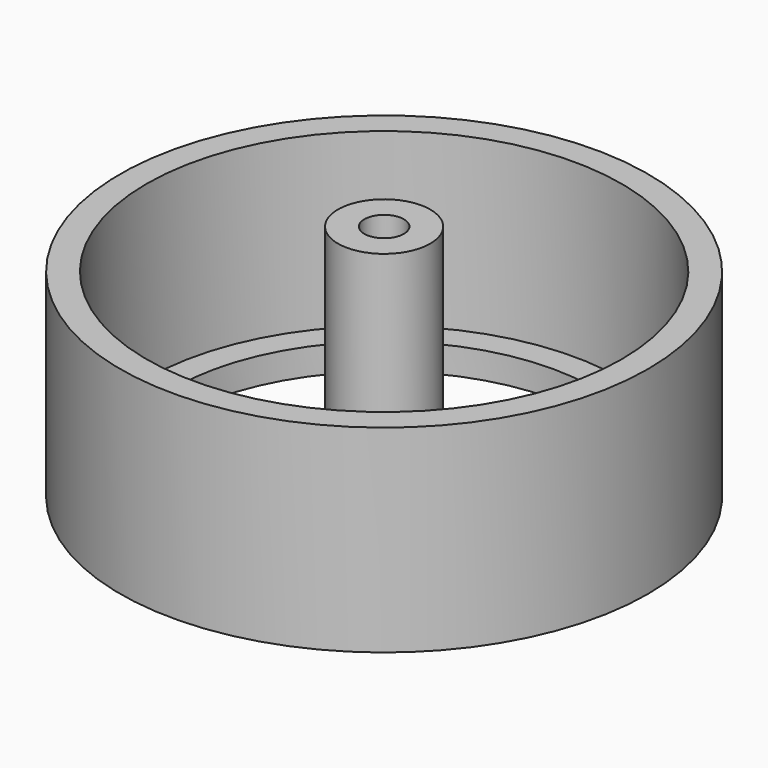
from build123d import *

# Parameters (mm, degrees)
F0_R      = 20
F1_DEPTH  = 15
F2_R      = 18
F3_DEPTH  = 13
F4_R      = 3.5
F4_R_2    = 1.5
F6_DEPTH  = 16
F7_DEPTH  = 2
F5_R      = 16.5
F5_R_2    = 17
F8_DEPTH  = 1
F9_R      = 4
F9_R_2    = 3.5
F10_DEPTH = 1


with BuildPart() as f1:
    # F0 (on Top) → F1 (new body)
    with BuildSketch(Plane.XY):
        Circle(F0_R)
    extrude(amount=F1_DEPTH)

    # F2 (on face) → F3 (cut)
    with BuildSketch(Plane.XY.offset(15)):
        Circle(F2_R)
    extrude(amount=-F3_DEPTH, mode=Mode.SUBTRACT)

    # F4 (on face) → F6 (join)
    with BuildSketch(Plane.XY.offset(2)):
        Circle(F4_R)
        Circle(F4_R_2, mode=Mode.SUBTRACT)
    extrude(amount=F6_DEPTH)

    # F5 (on face) → F7 (cut)
    with BuildSketch(Plane(origin=(0, 0, 0), x_dir=(1, 0, 0), z_dir=(0, 0, -1))):
        with BuildLine():
            Line((0, -5.352867), (-7.560142, -14.101215))
            ThreePointArc((-7.560142, -14.101215), (0, -16), (7.560142, -14.101215))
            Line((7.560142, -14.101215), (0, -5.352867))
        make_face()
        with BuildLine():
            Line((-5.090879, -1.654127), (-15.747264, 2.832607))
            ThreePointArc((-15.747264, 2.832607), (-15.216904, -4.944272), (-11.07484, -11.547637))
            Line((-11.07484, -11.547637), (-5.090879, -1.654127))
        make_face()
        with BuildLine():
            Line((-3.146336, 4.330561), (-2.172203, 15.851862))
            ThreePointArc((-2.172203, 15.851862), (-9.404564, 12.944272), (-14.404769, 6.964382))
            Line((-14.404769, 6.964382), (-3.146336, 4.330561))
        make_face()
        with BuildLine():
            ThreePointArc((14.404769, 6.964382), (9.404564, 12.944272), (2.172203, 15.851862))
            Line((2.172203, 15.851862), (3.146336, 4.330561))
            Line((3.146336, 4.330561), (14.404769, 6.964382))
        make_face()
        with BuildLine():
            Line((5.090879, -1.654127), (11.07484, -11.547637))
            ThreePointArc((11.07484, -11.547637), (15.216904, -4.944272), (15.747264, 2.832607))
            Line((15.747264, 2.832607), (5.090879, -1.654127))
        make_face()
    extrude(amount=-F7_DEPTH, mode=Mode.SUBTRACT)

    # F5 (on face) → F8 (cut)
    with BuildSketch(Plane(origin=(0, 0, 0), x_dir=(1, 0, 0), z_dir=(0, 0, -1))):
        Circle(F5_R)
        with BuildLine():
            ThreePointArc((-11.07484, -11.547637), (-15.216904, -4.944272), (-15.747264, 2.832607))
            Line((-15.747264, 2.832607), (-5.090879, -1.654127))
            Line((-5.090879, -1.654127), (-11.07484, -11.547637))
        make_face(mode=Mode.SUBTRACT)
        with BuildLine():
            ThreePointArc((7.560142, -14.101215), (0, -16), (-7.560142, -14.101215))
            Line((-7.560142, -14.101215), (0, -5.352867))
            Line((0, -5.352867), (7.560142, -14.101215))
        make_face(mode=Mode.SUBTRACT)
        with BuildLine():
            ThreePointArc((15.747264, 2.832607), (15.216904, -4.944272), (11.07484, -11.547637))
            Line((11.07484, -11.547637), (5.090879, -1.654127))
            Line((5.090879, -1.654127), (15.747264, 2.832607))
        make_face(mode=Mode.SUBTRACT)
        with BuildLine():
            ThreePointArc((-14.404769, 6.964382), (-9.404564, 12.944272), (-2.172203, 15.851862))
            Line((-2.172203, 15.851862), (-3.146336, 4.330561))
            Line((-3.146336, 4.330561), (-14.404769, 6.964382))
        make_face(mode=Mode.SUBTRACT)
        with BuildLine():
            Line((3.146336, 4.330561), (2.172203, 15.851862))
            ThreePointArc((2.172203, 15.851862), (9.404564, 12.944272), (14.404769, 6.964382))
            Line((14.404769, 6.964382), (3.146336, 4.330561))
        make_face(mode=Mode.SUBTRACT)
        Circle(F5_R_2)
        Circle(F5_R, mode=Mode.SUBTRACT)
    extrude(amount=-F8_DEPTH, mode=Mode.SUBTRACT)

    # F9 (on face) → F10 (cut)
    with BuildSketch(Plane(origin=(0, 0, 0), x_dir=(1, 0, 0), z_dir=(0, 0, -1))):
        Circle(F9_R)
        Circle(F9_R_2, mode=Mode.SUBTRACT)
    extrude(amount=-F10_DEPTH, mode=Mode.SUBTRACT)


solid = f1.part
